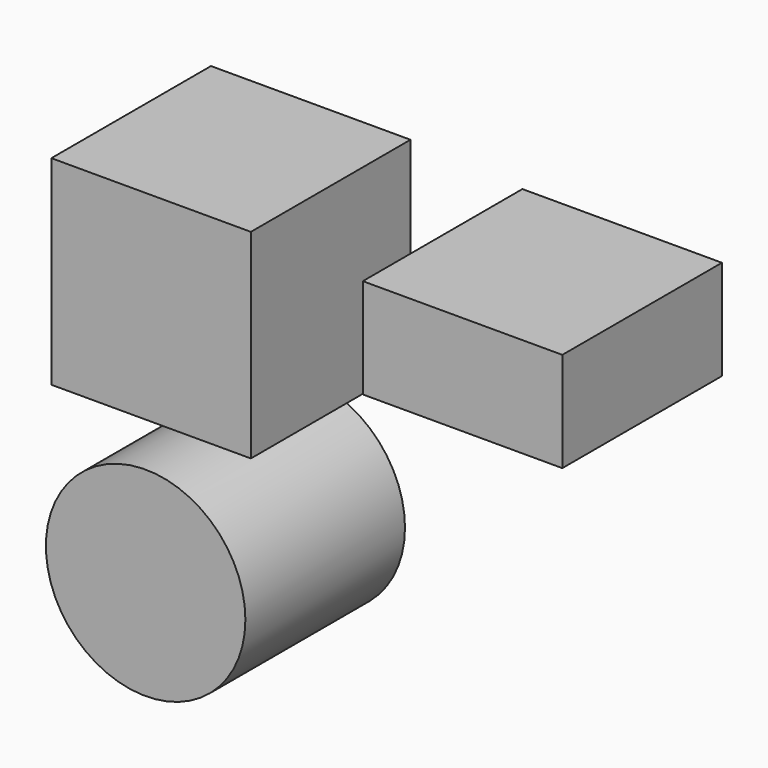
from build123d import *

# Parameters (mm, degrees)
F0_W     = 50.8
F0_H     = 50.8
F3_DEPTH = 50.8
F1_W     = 50.8
F1_H     = 25.4
F4_DEPTH = 50.8
F2_R     = 25.4
F5_DEPTH = 50.8


with BuildPart() as f3:
    # F0 (on Front) → F3 (new body)
    with BuildSketch(Plane.XZ):
        with Locations((-44.889332, 33.856223)):
            Rectangle(F0_W, F0_H)
    extrude(amount=F3_DEPTH)


with BuildPart() as f4:
    # F1 (on Front) → F4 (new body)
    with BuildSketch(Plane.XZ):
        with Locations((34.420673, 44.773038)):
            Rectangle(F1_W, F1_H)
    extrude(amount=F4_DEPTH)


with BuildPart() as f5:
    # F2 (on Front) → F5 (new body)
    with BuildSketch(Plane.XZ):
        with Locations((-46.284854, -28.143052)):
            Circle(F2_R)
    extrude(amount=F5_DEPTH)


solid = Compound([f3.part, f4.part, f5.part])
